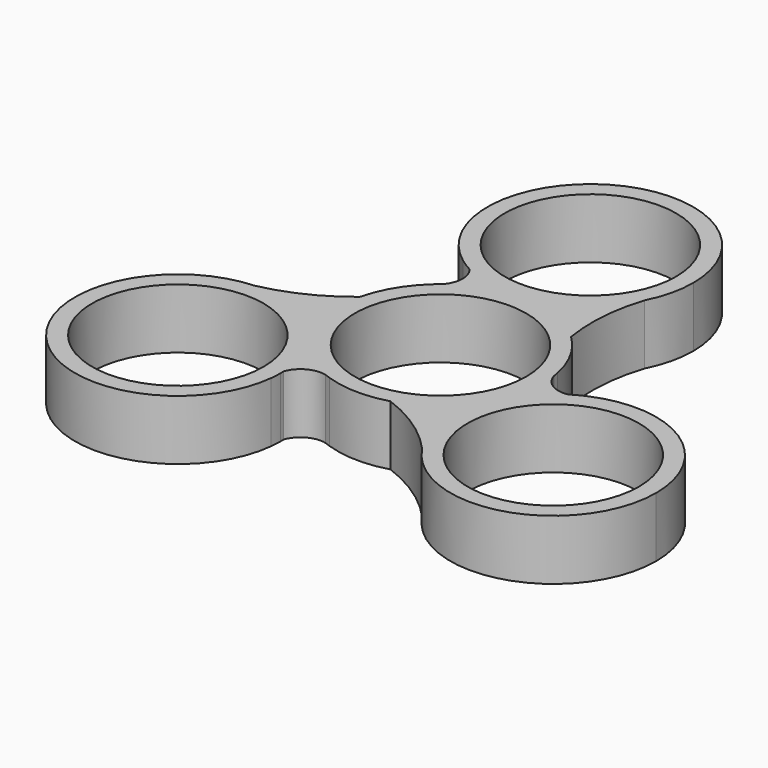
from build123d import *

# Parameters (mm, degrees)
F0_R     = 10
F1_DEPTH = 7
F2_DEPTH = 7


with BuildPart() as f1:
    # F0 (on Top) → F1 (new body)
    with BuildSketch(Plane.XY):
        with BuildLine():
            ThreePointArc((-7.905729, -12.970181), (-8.489375, -9.697228), (-9.948647, -6.710024))
            ThreePointArc((-9.948647, -6.710024), (-14.537703, -2.683439), (-20.514029, -1.435908))
            ThreePointArc((-20.514029, -1.435908), (-28.623409, -21.657457), (-7.968535, -14.725697))
            ThreePointArc((-7.968535, -14.725697), (-8.073222, -13.84307), (-7.905729, -12.970181))
        make_face()
        with Locations((-19.897294, -13.420049)):
            Circle(F0_R, mode=Mode.SUBTRACT)
        with BuildLine():
            ThreePointArc((11.882649, 1.674113), (11.805899, 2.006216), (11.768638, 2.34503))
            ThreePointArc((11.768638, 2.34503), (10.514847, 5.78256), (8.283423, 8.682448))
            ThreePointArc((8.283423, 8.682448), (4.070211, 11.288639), (-0.836728, 11.970793))
            ThreePointArc((-0.836728, 11.970793), (-4.302154, 11.202297), (-7.391149, 9.453619))
            ThreePointArc((-7.391149, 9.453619), (-7.640384, 9.2211), (-7.915175, 9.019424))
            ThreePointArc((-7.915175, 9.019424), (-10.265267, 6.214844), (-11.660932, 2.832431))
            ThreePointArc((-11.660932, 2.832431), (-11.811354, -2.119413), (-9.948647, -6.710024))
            ThreePointArc((-9.948647, -6.710024), (-7.550397, -9.326923), (-4.4915, -11.127732))
            ThreePointArc((-4.4915, -11.127732), (-4.165515, -11.227317), (-3.853463, -11.364454))
            ThreePointArc((-3.853463, -11.364454), (-0.24958, -11.997404), (3.377509, -11.514879))
            ThreePointArc((3.377509, -11.514879), (7.741143, -9.169226), (10.785375, -5.260768))
            ThreePointArc((10.785375, -5.260768), (11.692401, -2.699583), (12, 0))
            ThreePointArc((12, 0), (11.970626, 0.839111), (11.882649, 1.674113))
        make_face()
        Circle(F0_R, mode=Mode.SUBTRACT)
        with BuildLine():
            ThreePointArc((-9.948647, -6.710024), (-11.811354, -2.119413), (-11.660932, 2.832431))
            ThreePointArc((-11.660932, 2.832431), (-15.828168, 0.160413), (-20.514029, -1.435908))
            ThreePointArc((-20.514029, -1.435908), (-14.537703, -2.683439), (-9.948647, -6.710024))
        make_face()
        with BuildLine():
            ThreePointArc((11.882649, 1.674113), (11.805899, 2.006216), (11.768638, 2.34503))
            ThreePointArc((11.768638, 2.34503), (10.514847, 5.78256), (8.283423, 8.682448))
            ThreePointArc((8.283423, 8.682448), (4.070211, 11.288639), (-0.836728, 11.970793))
            ThreePointArc((-0.836728, 11.970793), (-4.302154, 11.202297), (-7.391149, 9.453619))
            ThreePointArc((-7.391149, 9.453619), (-7.640384, 9.2211), (-7.915175, 9.019424))
            ThreePointArc((-7.915175, 9.019424), (-10.265267, 6.214844), (-11.660932, 2.832431))
            ThreePointArc((-11.660932, 2.832431), (-11.811354, -2.119413), (-9.948647, -6.710024))
            ThreePointArc((-9.948647, -6.710024), (-7.550397, -9.326923), (-4.4915, -11.127732))
            ThreePointArc((-4.4915, -11.127732), (-4.165515, -11.227317), (-3.853463, -11.364454))
            ThreePointArc((-3.853463, -11.364454), (-0.24958, -11.997404), (3.377509, -11.514879))
            ThreePointArc((3.377509, -11.514879), (7.741143, -9.169226), (10.785375, -5.260768))
            ThreePointArc((10.785375, -5.260768), (11.692401, -2.699583), (12, 0))
            ThreePointArc((12, 0), (11.970626, 0.839111), (11.882649, 1.674113))
        make_face()
        Circle(F0_R, mode=Mode.SUBTRACT)
    extrude(amount=F1_DEPTH)

    # F0 (on Top) → F2 (join)
    with BuildSketch(Plane.XY):
        with BuildLine():
            ThreePointArc((11.882649, 1.674113), (11.805899, 2.006216), (11.768638, 2.34503))
            ThreePointArc((11.768638, 2.34503), (10.514847, 5.78256), (8.283423, 8.682448))
            ThreePointArc((8.283423, 8.682448), (4.070211, 11.288639), (-0.836728, 11.970793))
            ThreePointArc((-0.836728, 11.970793), (-4.302154, 11.202297), (-7.391149, 9.453619))
            ThreePointArc((-7.391149, 9.453619), (-7.640384, 9.2211), (-7.915175, 9.019424))
            ThreePointArc((-7.915175, 9.019424), (-10.265267, 6.214844), (-11.660932, 2.832431))
            ThreePointArc((-11.660932, 2.832431), (-11.811354, -2.119413), (-9.948647, -6.710024))
            ThreePointArc((-9.948647, -6.710024), (-7.550397, -9.326923), (-4.4915, -11.127732))
            ThreePointArc((-4.4915, -11.127732), (-4.165515, -11.227317), (-3.853463, -11.364454))
            ThreePointArc((-3.853463, -11.364454), (-0.24958, -11.997404), (3.377509, -11.514879))
            ThreePointArc((3.377509, -11.514879), (7.741143, -9.169226), (10.785375, -5.260768))
            ThreePointArc((10.785375, -5.260768), (11.692401, -2.699583), (12, 0))
            ThreePointArc((12, 0), (11.970626, 0.839111), (11.882649, 1.674113))
        make_face()
        Circle(F0_R, mode=Mode.SUBTRACT)
        with BuildLine():
            ThreePointArc((11.882649, 1.674113), (11.8304, 2.01038), (11.768638, 2.34503))
            ThreePointArc((11.768638, 2.34503), (11.805899, 2.006216), (11.882649, 1.674113))
        make_face()
        with BuildLine():
            ThreePointArc((-0.836728, 11.970793), (4.070211, 11.288639), (8.283423, 8.682448))
            ThreePointArc((8.283423, 8.682448), (8.053006, 13.627389), (9.013482, 18.483624))
            ThreePointArc((9.013482, 18.483624), (4.944925, 13.931739), (-0.836728, 11.970793))
        make_face()
        with BuildLine():
            ThreePointArc((15.185371, -0.361472), (13.143603, 0.022889), (11.882649, 1.674113))
            ThreePointArc((11.882649, 1.674113), (11.970626, 0.839111), (12, 0))
            ThreePointArc((12, 0), (11.692401, -2.699583), (10.785375, -5.260768))
            ThreePointArc((10.785375, -5.260768), (12.642734, -2.5034), (15.185371, -0.361472))
        make_face()
        with BuildLine():
            ThreePointArc((-7.391149, 9.453619), (-4.302154, 11.202297), (-0.836728, 11.970793))
            ThreePointArc((-0.836728, 11.970793), (-4.153358, 12.200628), (-7.279641, 13.331653))
            ThreePointArc((-7.279641, 13.331653), (-6.591624, 11.37125), (-7.391149, 9.453619))
        make_face()
        with BuildLine():
            ThreePointArc((-7.279641, 13.331653), (-4.153358, 12.200628), (-0.836728, 11.970793))
            ThreePointArc((-0.836728, 11.970793), (4.944925, 13.931739), (9.013482, 18.483624))
            ThreePointArc((9.013482, 18.483624), (9.993661, 21.134743), (10.326544, 23.941586))
            ThreePointArc((10.326544, 23.941586), (-7.098341, 34.645353), (-8.768561, 14.263803))
            ThreePointArc((-8.768561, 14.263803), (-7.951839, 13.913151), (-7.279641, 13.331653))
        make_face()
        with Locations((-1.673456, 23.941586)):
            Circle(F0_R, mode=Mode.SUBTRACT)
        with BuildLine():
            ThreePointArc((16.737096, 0.461895), (16.025062, -0.07008), (15.185371, -0.361472))
            ThreePointArc((15.185371, -0.361472), (12.642734, -2.5034), (10.785375, -5.260768))
            ThreePointArc((10.785375, -5.260768), (9.592778, -11.248299), (11.500547, -17.047716))
            ThreePointArc((11.500547, -17.047716), (24.973511, -22.028979), (33.57075, -10.521537))
            ThreePointArc((33.57075, -10.521537), (28.128042, -0.471566), (16.737096, 0.461895))
        make_face()
        with Locations((21.57075, -10.521537)):
            Circle(F0_R, mode=Mode.SUBTRACT)
        with BuildLine():
            ThreePointArc((16.737096, 0.461895), (15.946147, 0.078644), (15.185371, -0.361472))
            ThreePointArc((15.185371, -0.361472), (16.025062, -0.07008), (16.737096, 0.461895))
        make_face()
        with BuildLine():
            ThreePointArc((-7.915175, 9.019424), (-7.640384, 9.2211), (-7.391149, 9.453619))
            ThreePointArc((-7.391149, 9.453619), (-7.65624, 9.240237), (-7.915175, 9.019424))
        make_face()
        with BuildLine():
            ThreePointArc((-8.768561, 14.263803), (-8.041181, 13.770446), (-7.279641, 13.331653))
            ThreePointArc((-7.279641, 13.331653), (-7.951839, 13.913151), (-8.768561, 14.263803))
        make_face()
        with BuildLine():
            ThreePointArc((11.500547, -17.047716), (9.592778, -11.248299), (10.785375, -5.260768))
            ThreePointArc((10.785375, -5.260768), (7.741143, -9.169226), (3.377509, -11.514879))
            ThreePointArc((3.377509, -11.514879), (7.775162, -13.787802), (11.500547, -17.047716))
        make_face()
        with BuildLine():
            ThreePointArc((-9.948647, -6.710024), (-11.811354, -2.119413), (-11.660932, 2.832431))
            ThreePointArc((-11.660932, 2.832431), (-15.828168, 0.160413), (-20.514029, -1.435908))
            ThreePointArc((-20.514029, -1.435908), (-14.537703, -2.683439), (-9.948647, -6.710024))
        make_face()
        with BuildLine():
            ThreePointArc((-4.4915, -11.127732), (-4.17416, -11.250617), (-3.853463, -11.364454))
            ThreePointArc((-3.853463, -11.364454), (-4.165515, -11.227317), (-4.4915, -11.127732))
        make_face()
        with BuildLine():
            ThreePointArc((-4.4915, -11.127732), (-7.550397, -9.326923), (-9.948647, -6.710024))
            ThreePointArc((-9.948647, -6.710024), (-8.489375, -9.697228), (-7.905729, -12.970181))
            ThreePointArc((-7.905729, -12.970181), (-6.551979, -11.394139), (-4.4915, -11.127732))
        make_face()
        with BuildLine():
            ThreePointArc((-7.905729, -12.970181), (-8.489375, -9.697228), (-9.948647, -6.710024))
            ThreePointArc((-9.948647, -6.710024), (-14.537703, -2.683439), (-20.514029, -1.435908))
            ThreePointArc((-20.514029, -1.435908), (-28.623409, -21.657457), (-7.968535, -14.725697))
            ThreePointArc((-7.968535, -14.725697), (-8.073222, -13.84307), (-7.905729, -12.970181))
        make_face()
        with Locations((-19.897294, -13.420049)):
            Circle(F0_R, mode=Mode.SUBTRACT)
        with BuildLine():
            ThreePointArc((-7.897294, -13.420049), (-7.899403, -13.195075), (-7.905729, -12.970181))
            ThreePointArc((-7.905729, -12.970181), (-8.073222, -13.84307), (-7.968535, -14.725697))
            ThreePointArc((-7.968535, -14.725697), (-7.915117, -14.073844), (-7.897294, -13.420049))
        make_face()
    extrude(amount=F2_DEPTH)


solid = f1.part
